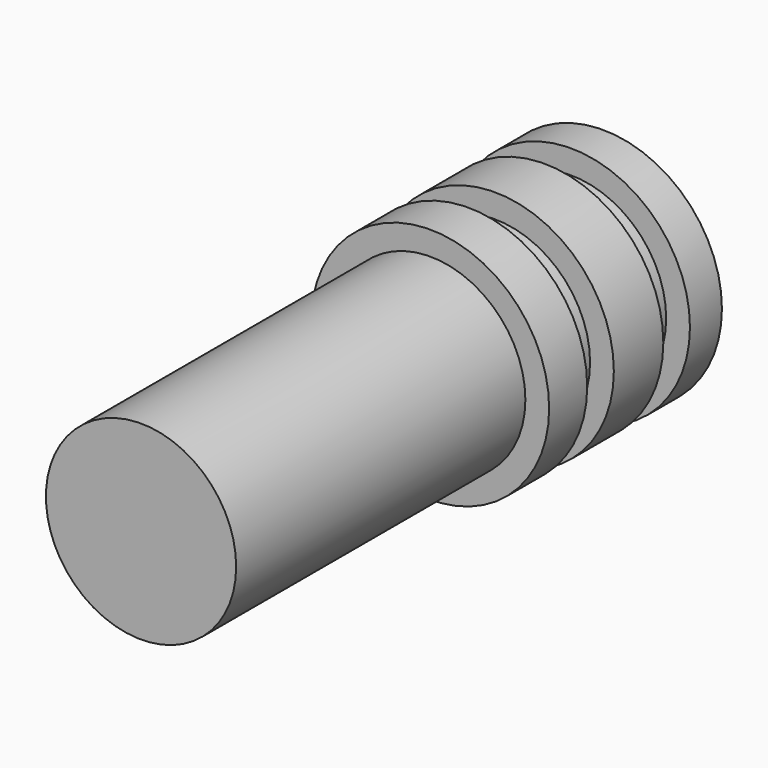
from build123d import *

# Parameters (mm, degrees)
F0_R      = 15.875
F1_DEPTH  = 5.334
F2_R      = 12.7
F3_DEPTH  = 4.445
F4_R      = 15.875
F5_DEPTH  = 8.255
F6_R      = 12.7
F7_DEPTH  = 4.445
F8_R      = 15.875
F9_DEPTH  = 6.35
F10_R     = 12.7
F11_DEPTH = 48.26


with BuildPart() as f1:
    # F0 (on Front) → F1 (new body)
    with BuildSketch(Plane.XZ):
        Circle(F0_R)
    extrude(amount=F1_DEPTH)

    # F2 (on face) → F3 (join)
    with BuildSketch(Plane.XZ.offset(5.334)):
        Circle(F2_R)
    extrude(amount=F3_DEPTH)

    # F4 (on face) → F5 (join)
    with BuildSketch(Plane.XZ.offset(9.779)):
        Circle(F4_R)
    extrude(amount=F5_DEPTH)

    # F6 (on face) → F7 (join)
    with BuildSketch(Plane.XZ.offset(18.034)):
        Circle(F6_R)
    extrude(amount=F7_DEPTH)

    # F8 (on face) → F9 (join)
    with BuildSketch(Plane.XZ.offset(22.479)):
        Circle(F8_R)
    extrude(amount=F9_DEPTH)

    # F10 (on face) → F11 (join)
    with BuildSketch(Plane.XZ.offset(28.829)):
        Circle(F10_R)
    extrude(amount=F11_DEPTH)


solid = f1.part
